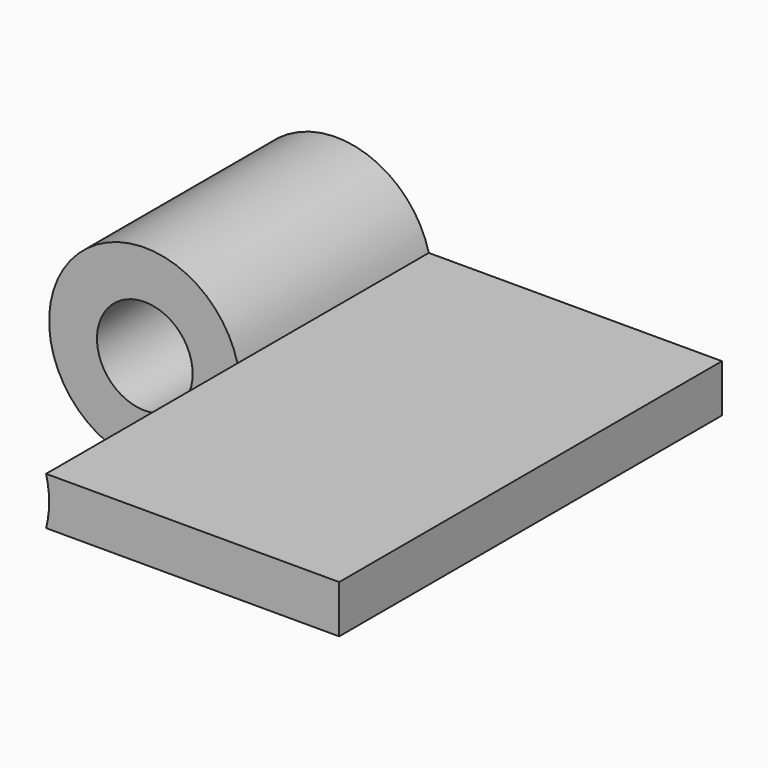
from build123d import *

# Parameters (mm, degrees)
F0_R     = 10
F1_DEPTH = 50
F2_DEPTH = 100


with BuildPart() as f1:
    # F0 (on Front) → F1 (new body)
    with BuildSketch(Plane.XZ):
        with BuildLine():
            ThreePointArc((19.364917, -5), (19.840594, -2.520086), (20, 0))
            ThreePointArc((20, 0), (19.840594, 2.520086), (19.364917, 5))
            ThreePointArc((19.364917, 5), (-20, 0), (19.364917, -5))
        make_face()
        Circle(F0_R, mode=Mode.SUBTRACT)
    extrude(amount=F1_DEPTH)

    # F0 (on Front) → F2 (join)
    with BuildSketch(Plane.XZ):
        with BuildLine():
            ThreePointArc((19.364917, 5), (19.840594, 2.520086), (20, 0))
            ThreePointArc((20, 0), (19.840594, -2.520086), (19.364917, -5))
            Line((19.364917, -5), (80.635083, -5))
            Line((80.635083, -5), (80.635083, 5))
            Line((80.635083, 5), (19.364917, 5))
        make_face()
    extrude(amount=F2_DEPTH)


solid = f1.part
